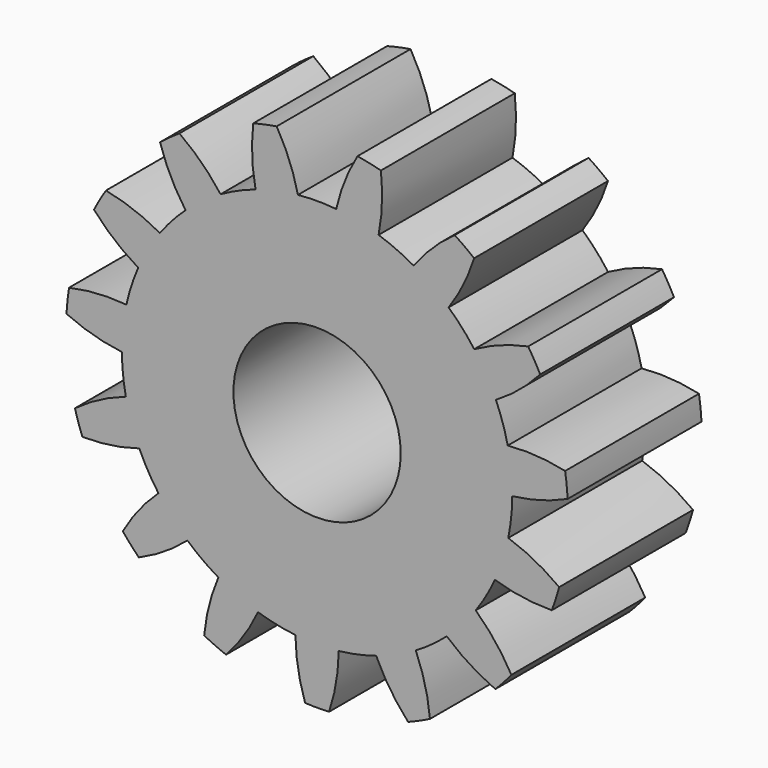
from build123d import *

# Parameters (mm, degrees)
F0_R     = 45
F0_R_2   = 15
F1_DEPTH = 30
F3_DEPTH = 31


with BuildPart() as f1:
    # F0 (on Front) → F1 (new body)
    with BuildSketch(Plane.XZ):
        Circle(F0_R)
        Circle(F0_R_2, mode=Mode.SUBTRACT)
    extrude(amount=F1_DEPTH)

    # F2 (on face) → F3 (cut)
    with BuildSketch(Plane.XZ.offset(30)):
        with BuildLine():
            ThreePointArc((10.376717, 48.818613), (10.409932, 48.857949), (10.443208, 48.897233))
            ThreePointArc((10.443208, 48.897233), (10.395585, 48.90738), (10.347951, 48.917481))
            ThreePointArc((10.347951, 48.917481), (10.362373, 48.868058), (10.376717, 48.818613))
        make_face()
        with BuildLine():
            ThreePointArc((29.349856, 40.479451), (20.336832, 45.677273), (10.443208, 48.897233))
            ThreePointArc((10.443208, 48.897233), (10.409932, 48.857949), (10.376717, 48.818613))
            ThreePointArc((10.376717, 48.818613), (11.643532, 41.056647), (11.032353, 33.215767))
            ThreePointArc((11.032353, 33.215767), (14.235783, 31.974091), (17.30204, 30.424323))
            ThreePointArc((17.30204, 30.424323), (22.719991, 36.12509), (29.335921, 40.377432))
            ThreePointArc((29.335921, 40.377432), (29.342928, 40.428436), (29.349856, 40.479451))
        make_face()
        with BuildLine():
            ThreePointArc((10.376717, 48.818613), (10.362373, 48.868058), (10.347951, 48.917481))
            ThreePointArc((10.347951, 48.917481), (0, 50), (-10.347951, 48.917481))
            ThreePointArc((-10.347951, 48.917481), (-10.362373, 48.868058), (-10.376717, 48.818613))
            ThreePointArc((-10.376717, 48.818613), (-6.062347, 42.242965), (-3.431513, 34.831375))
            ThreePointArc((-3.431513, 34.831375), (0, 35), (3.431513, 34.831375))
            ThreePointArc((3.431513, 34.831375), (6.062347, 42.242965), (10.376717, 48.818613))
        make_face()
        with BuildLine():
            ThreePointArc((29.428642, 40.42221), (29.389263, 40.45085), (29.349856, 40.479451))
            ThreePointArc((29.349856, 40.479451), (29.342928, 40.428436), (29.335921, 40.377432))
            ThreePointArc((29.335921, 40.377432), (29.382264, 40.399857), (29.428642, 40.42221))
        make_face()
        with BuildLine():
            ThreePointArc((-10.376717, 48.818613), (-10.362373, 48.868058), (-10.347951, 48.917481))
            ThreePointArc((-10.347951, 48.917481), (-10.395585, 48.90738), (-10.443208, 48.897233))
            ThreePointArc((-10.443208, 48.897233), (-10.409932, 48.857949), (-10.376717, 48.818613))
        make_face()
        with BuildLine():
            ThreePointArc((43.276903, 25.042157), (37.157241, 33.45653), (29.428642, 40.42221))
            ThreePointArc((29.428642, 40.42221), (29.382264, 40.399857), (29.335921, 40.377432))
            ThreePointArc((29.335921, 40.377432), (27.336139, 32.771262), (23.588626, 25.856851))
            ThreePointArc((23.588626, 25.856851), (26.010069, 23.419571), (28.180887, 20.756628))
            ThreePointArc((28.180887, 20.756628), (35.449143, 23.760859), (43.222679, 24.954625))
            ThreePointArc((43.222679, 24.954625), (43.249825, 24.99837), (43.276903, 25.042157))
        make_face()
        with BuildLine():
            ThreePointArc((-10.376717, 48.818613), (-10.409932, 48.857949), (-10.443208, 48.897233))
            ThreePointArc((-10.443208, 48.897233), (-20.336832, 45.677273), (-29.349856, 40.479451))
            ThreePointArc((-29.349856, 40.479451), (-29.342928, 40.428436), (-29.335921, 40.377432))
            ThreePointArc((-29.335921, 40.377432), (-22.719991, 36.12509), (-17.30204, 30.424323))
            ThreePointArc((-17.30204, 30.424323), (-14.235783, 31.974091), (-11.032353, 33.215767))
            ThreePointArc((-11.032353, 33.215767), (-11.643532, 41.056647), (-10.376717, 48.818613))
        make_face()
        with BuildLine():
            ThreePointArc((43.325596, 24.957819), (43.30127, 25), (43.276903, 25.042157))
            ThreePointArc((43.276903, 25.042157), (43.249825, 24.99837), (43.222679, 24.954625))
            ThreePointArc((43.222679, 24.954625), (43.274136, 24.956262), (43.325596, 24.957819))
        make_face()
        with BuildLine():
            ThreePointArc((-29.335921, 40.377432), (-29.342928, 40.428436), (-29.349856, 40.479451))
            ThreePointArc((-29.349856, 40.479451), (-29.389263, 40.45085), (-29.428642, 40.42221))
            ThreePointArc((-29.428642, 40.42221), (-29.382264, 40.399857), (-29.335921, 40.377432))
        make_face()
        with BuildLine():
            ThreePointArc((49.720981, 5.274846), (47.552826, 15.45085), (43.325596, 24.957819))
            ThreePointArc((43.325596, 24.957819), (43.274136, 24.956262), (43.222679, 24.954625))
            ThreePointArc((43.222679, 24.954625), (38.302079, 18.819429), (32.066211, 14.02705))
            ThreePointArc((32.066211, 14.02705), (33.286978, 10.815595), (34.187003, 7.499924))
            ThreePointArc((34.187003, 7.499924), (42.048815, 7.288159), (49.635842, 5.216937))
            ThreePointArc((49.635842, 5.216937), (49.678434, 5.245858), (49.720981, 5.274846))
        make_face()
        with BuildLine():
            ThreePointArc((-29.335921, 40.377432), (-29.382264, 40.399857), (-29.428642, 40.42221))
            ThreePointArc((-29.428642, 40.42221), (-37.157241, 33.45653), (-43.276903, 25.042157))
            ThreePointArc((-43.276903, 25.042157), (-43.249825, 24.99837), (-43.222679, 24.954625))
            ThreePointArc((-43.222679, 24.954625), (-35.449143, 23.760859), (-28.180887, 20.756628))
            ThreePointArc((-28.180887, 20.756628), (-26.010069, 23.419571), (-23.588626, 25.856851))
            ThreePointArc((-23.588626, 25.856851), (-27.336139, 32.771262), (-29.335921, 40.377432))
        make_face()
        with BuildLine():
            ThreePointArc((49.731161, 5.177995), (49.726095, 5.226423), (49.720981, 5.274846))
            ThreePointArc((49.720981, 5.274846), (49.678434, 5.245858), (49.635842, 5.216937))
            ThreePointArc((49.635842, 5.216937), (49.683517, 5.197503), (49.731161, 5.177995))
        make_face()
        with BuildLine():
            ThreePointArc((-43.222679, 24.954625), (-43.249825, 24.99837), (-43.276903, 25.042157))
            ThreePointArc((-43.276903, 25.042157), (-43.30127, 25), (-43.325596, 24.957819))
            ThreePointArc((-43.325596, 24.957819), (-43.274136, 24.956262), (-43.222679, 24.954625))
        make_face()
        with BuildLine():
            ThreePointArc((47.56785, -15.404533), (49.726095, -5.226423), (49.731161, 5.177995))
            ThreePointArc((49.731161, 5.177995), (49.683517, 5.197503), (49.635842, 5.216937))
            ThreePointArc((49.635842, 5.216937), (42.645241, 1.613545), (34.999256, -0.228155))
            ThreePointArc((34.999256, -0.228155), (34.808266, -3.658496), (34.281875, -7.053585))
            ThreePointArc((34.281875, -7.053585), (41.377866, -10.444729), (47.466518, -15.422806))
            ThreePointArc((47.466518, -15.422806), (47.517191, -15.413709), (47.56785, -15.404533))
        make_face()
        with BuildLine():
            ThreePointArc((-43.222679, 24.954625), (-43.274136, 24.956262), (-43.325596, 24.957819))
            ThreePointArc((-43.325596, 24.957819), (-47.552826, 15.45085), (-49.720981, 5.274846))
            ThreePointArc((-49.720981, 5.274846), (-49.678434, 5.245858), (-49.635842, 5.216937))
            ThreePointArc((-49.635842, 5.216937), (-42.048815, 7.288159), (-34.187003, 7.499924))
            ThreePointArc((-34.187003, 7.499924), (-33.286978, 10.815595), (-32.066211, 14.02705))
            ThreePointArc((-32.066211, 14.02705), (-38.302079, 18.819429), (-43.222679, 24.954625))
        make_face()
        with BuildLine():
            ThreePointArc((47.537757, -15.497152), (47.552826, -15.45085), (47.56785, -15.404533))
            ThreePointArc((47.56785, -15.404533), (47.517191, -15.413709), (47.466518, -15.422806))
            ThreePointArc((47.466518, -15.422806), (47.502166, -15.459951), (47.537757, -15.497152))
        make_face()
        with BuildLine():
            ThreePointArc((-49.635842, 5.216937), (-49.678434, 5.245858), (-49.720981, 5.274846))
            ThreePointArc((-49.720981, 5.274846), (-49.726095, 5.226423), (-49.731161, 5.177995))
            ThreePointArc((-49.731161, 5.177995), (-49.683517, 5.197503), (-49.635842, 5.216937))
        make_face()
        with BuildLine():
            ThreePointArc((37.189805, -33.420329), (43.30127, -25), (47.537757, -15.497152))
            ThreePointArc((47.537757, -15.497152), (47.502166, -15.459951), (47.466518, -15.422806))
            ThreePointArc((47.466518, -15.422806), (39.614654, -15.871336), (31.880613, -14.44391))
            ThreePointArc((31.880613, -14.44391), (30.310889, -17.5), (28.449099, -20.387466))
            ThreePointArc((28.449099, -20.387466), (33.552307, -26.371629), (37.089801, -33.395807))
            ThreePointArc((37.089801, -33.395807), (37.139794, -33.408107), (37.189805, -33.420329))
        make_face()
        with BuildLine():
            ThreePointArc((-49.635842, 5.216937), (-49.683517, 5.197503), (-49.731161, 5.177995))
            ThreePointArc((-49.731161, 5.177995), (-49.726095, -5.226423), (-47.56785, -15.404533))
            ThreePointArc((-47.56785, -15.404533), (-47.517191, -15.413709), (-47.466518, -15.422806))
            ThreePointArc((-47.466518, -15.422806), (-41.377866, -10.444729), (-34.281875, -7.053585))
            ThreePointArc((-34.281875, -7.053585), (-34.808266, -3.658496), (-34.999256, -0.228155))
            ThreePointArc((-34.999256, -0.228155), (-42.645241, 1.613545), (-49.635842, 5.216937))
        make_face()
        with BuildLine():
            ThreePointArc((37.124642, -33.4927), (37.157241, -33.45653), (37.189805, -33.420329))
            ThreePointArc((37.189805, -33.420329), (37.139794, -33.408107), (37.089801, -33.395807))
            ThreePointArc((37.089801, -33.395807), (37.107259, -33.44424), (37.124642, -33.4927))
        make_face()
        with BuildLine():
            ThreePointArc((-47.466518, -15.422806), (-47.517191, -15.413709), (-47.56785, -15.404533))
            ThreePointArc((-47.56785, -15.404533), (-47.552826, -15.45085), (-47.537757, -15.497152))
            ThreePointArc((-47.537757, -15.497152), (-47.502166, -15.459951), (-47.466518, -15.422806))
        make_face()
        with BuildLine():
            ThreePointArc((20.381305, -45.657446), (29.389263, -40.45085), (37.124642, -33.4927))
            ThreePointArc((37.124642, -33.4927), (37.107259, -33.44424), (37.089801, -33.395807))
            ThreePointArc((37.089801, -33.395807), (29.734333, -30.611918), (23.249521, -26.162182))
            ThreePointArc((23.249521, -26.162182), (20.572484, -28.315595), (17.697216, -30.196168))
            ThreePointArc((17.697216, -30.196168), (19.92525, -37.738634), (20.299921, -45.594369))
            ThreePointArc((20.299921, -45.594369), (20.340588, -45.625939), (20.381305, -45.657446))
        make_face()
        with BuildLine():
            ThreePointArc((-47.466518, -15.422806), (-47.502166, -15.459951), (-47.537757, -15.497152))
            ThreePointArc((-47.537757, -15.497152), (-43.30127, -25), (-37.189805, -33.420329))
            ThreePointArc((-37.189805, -33.420329), (-37.139794, -33.408107), (-37.089801, -33.395807))
            ThreePointArc((-37.089801, -33.395807), (-33.552307, -26.371629), (-28.449099, -20.387466))
            ThreePointArc((-28.449099, -20.387466), (-30.310889, -17.5), (-31.880613, -14.44391))
            ThreePointArc((-31.880613, -14.44391), (-39.614654, -15.871336), (-47.466518, -15.422806))
        make_face()
        with BuildLine():
            ThreePointArc((20.29234, -45.697056), (20.336832, -45.677273), (20.381305, -45.657446))
            ThreePointArc((20.381305, -45.657446), (20.340588, -45.625939), (20.299921, -45.594369))
            ThreePointArc((20.299921, -45.594369), (20.296171, -45.645715), (20.29234, -45.697056))
        make_face()
        with BuildLine():
            ThreePointArc((-37.089801, -33.395807), (-37.139794, -33.408107), (-37.189805, -33.420329))
            ThreePointArc((-37.189805, -33.420329), (-37.157241, -33.45653), (-37.124642, -33.4927))
            ThreePointArc((-37.124642, -33.4927), (-37.107259, -33.44424), (-37.089801, -33.395807))
        make_face()
        with BuildLine():
            ThreePointArc((0.048692, -49.999976), (10.395585, -48.90738), (20.29234, -45.697056))
            ThreePointArc((20.29234, -45.697056), (20.296171, -45.645715), (20.299921, -45.594369))
            ThreePointArc((20.299921, -45.594369), (14.712676, -40.059422), (10.598377, -33.356775))
            ThreePointArc((10.598377, -33.356775), (7.276909, -34.235166), (3.885324, -34.783678))
            ThreePointArc((3.885324, -34.783678), (2.852936, -42.580287), (0, -49.90925))
            ThreePointArc((0, -49.90925), (0.024311, -49.954632), (0.048692, -49.999976))
        make_face()
        with BuildLine():
            ThreePointArc((-37.089801, -33.395807), (-37.107259, -33.44424), (-37.124642, -33.4927))
            ThreePointArc((-37.124642, -33.4927), (-29.389263, -40.45085), (-20.381305, -45.657446))
            ThreePointArc((-20.381305, -45.657446), (-20.340588, -45.625939), (-20.299921, -45.594369))
            ThreePointArc((-20.299921, -45.594369), (-19.92525, -37.738634), (-17.697216, -30.196168))
            ThreePointArc((-17.697216, -30.196168), (-20.572484, -28.315595), (-23.249521, -26.162182))
            ThreePointArc((-23.249521, -26.162182), (-29.734333, -30.611918), (-37.089801, -33.395807))
        make_face()
        with BuildLine():
            ThreePointArc((-0.048692, -49.999976), (0, -50), (0.048692, -49.999976))
            ThreePointArc((0.048692, -49.999976), (0.024311, -49.954632), (0, -49.90925))
            ThreePointArc((0, -49.90925), (-0.024311, -49.954632), (-0.048692, -49.999976))
        make_face()
        with BuildLine():
            ThreePointArc((-20.299921, -45.594369), (-20.340588, -45.625939), (-20.381305, -45.657446))
            ThreePointArc((-20.381305, -45.657446), (-20.336832, -45.677273), (-20.29234, -45.697056))
            ThreePointArc((-20.29234, -45.697056), (-20.296171, -45.645715), (-20.299921, -45.594369))
        make_face()
        with BuildLine():
            ThreePointArc((-20.29234, -45.697056), (-10.395585, -48.90738), (-0.048692, -49.999976))
            ThreePointArc((-0.048692, -49.999976), (-0.024311, -49.954632), (0, -49.90925))
            ThreePointArc((0, -49.90925), (-2.852936, -42.580287), (-3.885324, -34.783678))
            ThreePointArc((-3.885324, -34.783678), (-7.276909, -34.235166), (-10.598377, -33.356775))
            ThreePointArc((-10.598377, -33.356775), (-14.712676, -40.059422), (-20.299921, -45.594369))
            ThreePointArc((-20.299921, -45.594369), (-20.296171, -45.645715), (-20.29234, -45.697056))
        make_face()
    extrude(amount=-F3_DEPTH, mode=Mode.SUBTRACT)


solid = f1.part
